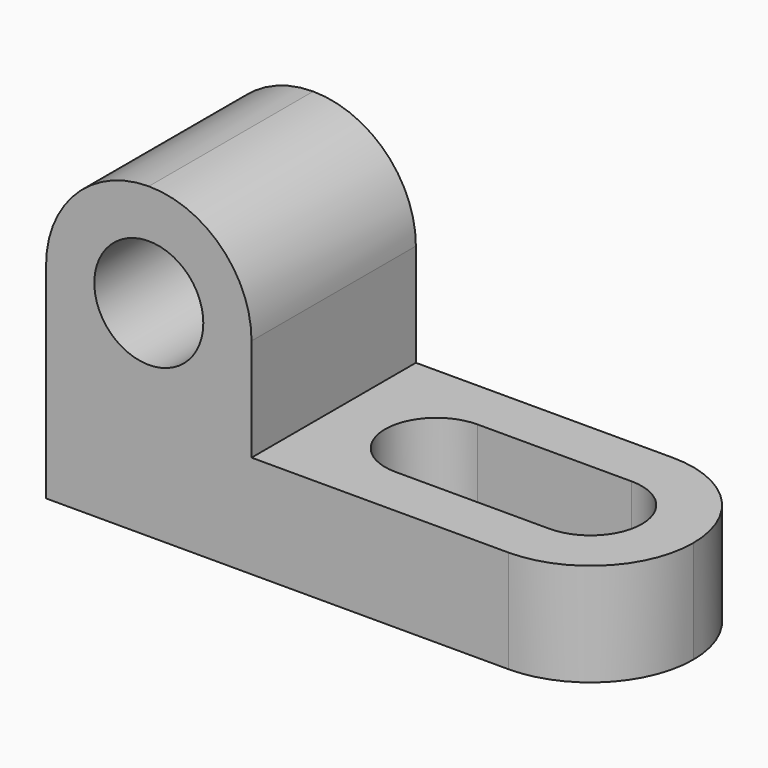
from build123d import *

# Parameters (mm, degrees)
F0_W      = 69.85
F0_H      = 38.1
F1_DEPTH  = 25.4
F2_W      = 44.45
F2_H      = 25.4
F3_DEPTH  = 25.4
F5_DEPTH  = 25.4
F7_DEPTH  = 25.4
F8_R      = 6.7378707766
F9_DEPTH  = 25.4
F11_DEPTH = 25.4


with BuildPart() as f1:
    # F0 (on Front) → F1 (new body)
    with BuildSketch(Plane.XZ):
        with Locations((34.925, 19.05)):
            Rectangle(F0_W, F0_H)
    extrude(amount=-F1_DEPTH)

    # F2 (on face) → F3 (cut)
    with BuildSketch(Plane.XZ):
        with Locations((47.625, 25.4)):
            Rectangle(F2_W, F2_H)
    extrude(amount=-F3_DEPTH, mode=Mode.SUBTRACT)

    # F4 (on face) → F5 (cut)
    with BuildSketch(Plane.XY.offset(12.7)):
        with BuildLine():
            ThreePointArc((38.1, 6.35), (42.5901280605, 8.2098719395), (44.45, 12.7))
            ThreePointArc((44.45, 12.7), (42.5901280605, 17.1901280605), (38.1, 19.05))
            ThreePointArc((38.1, 19.05), (31.75, 12.7), (38.1, 6.35))
        make_face()
        with BuildLine():
            ThreePointArc((38.1, 19.05), (42.5901280605, 17.1901280605), (44.45, 12.7))
            ThreePointArc((44.45, 12.7), (42.5901280605, 8.2098719395), (38.1, 6.35))
            Line((38.1, 6.35), (57.15, 6.35))
            ThreePointArc((57.15, 6.35), (50.8, 12.7), (57.15, 19.05))
            Line((57.15, 19.05), (38.1, 19.05))
        make_face()
        with BuildLine():
            ThreePointArc((63.5, 12.7), (61.6401280605, 17.1901280605), (57.15, 19.05))
            ThreePointArc((57.15, 19.05), (50.8, 12.7), (57.15, 6.35))
            ThreePointArc((57.15, 6.35), (61.6401280605, 8.2098719395), (63.5, 12.7))
        make_face()
    extrude(amount=-F5_DEPTH, mode=Mode.SUBTRACT)

    # F6 (on face) → F7 (cut)
    with BuildSketch(Plane.XY.offset(12.7)):
        with BuildLine():
            ThreePointArc((57.15, 25.4), (66.1302561211, 21.6802561211), (69.85, 12.7))
            Line((69.85, 12.7), (69.85, 25.4))
            Line((69.85, 25.4), (57.15, 25.4))
        make_face()
        with BuildLine():
            ThreePointArc((69.85, 12.7), (66.1302561211, 3.7197438789), (57.15, 0))
            Line((57.15, 0), (69.85, 0))
            Line((69.85, 0), (69.85, 12.7))
        make_face()
    extrude(amount=-F7_DEPTH, mode=Mode.SUBTRACT)

    # F8 (on face) → F9 (cut)
    with BuildSketch(Plane.XZ):
        with Locations((12.7, 25.4)):
            Circle(F8_R)
    extrude(amount=-F9_DEPTH, mode=Mode.SUBTRACT)

    # F10 (on face) → F11 (cut)
    with BuildSketch(Plane.XZ):
        with BuildLine():
            ThreePointArc((0, 25.4), (3.7197438789, 34.3802561211), (12.7, 38.1))
            Line((12.7, 38.1), (0, 38.1))
            Line((0, 38.1), (0, 25.4))
        make_face()
        with BuildLine():
            ThreePointArc((12.7, 38.1), (21.6802561211, 34.3802561211), (25.4, 25.4))
            Line((25.4, 25.4), (25.4, 38.1))
            Line((25.4, 38.1), (12.7, 38.1))
        make_face()
    extrude(amount=-F11_DEPTH, mode=Mode.SUBTRACT)


solid = f1.part
